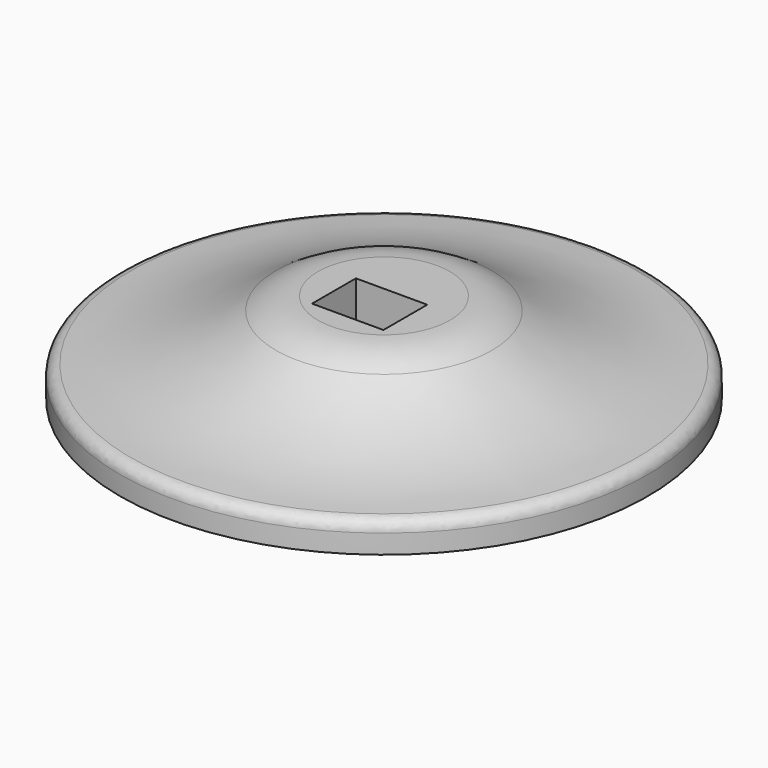
from build123d import *

# Parameters (mm, degrees)
F0_W     = 17.5
F0_H     = 2
F2_W     = 4
F2_H     = 4
F3_DEPTH = 4
F4_R     = 0.75
F5_SCALE = 0.9
F6_DEPTH = 0.33
F7_DEPTH = 0.33
F8_DEPTH = 0.33


with BuildPart() as f1:
    # F0 (on Right) → F1 (revolve)
    with BuildSketch(Plane.YZ):
        with BuildLine():
            Line((0, 1), (17.5, 1))
            ThreePointArc((17.5, 1), (12.0974696672, 1.8050013115), (7.164313392, 4.1500664011))
            ThreePointArc((7.164313392, 4.1500664011), (5.8332762858, 4.7827989716), (4.3755952516, 5))
            Line((4.3755952516, 5), (0, 5))
            Line((0, 5), (0, 1))
        make_face()
        with Locations((8.75, 0)):
            Rectangle(F0_W, F0_H)
    revolve(axis=Axis((0, 0, 2), (0, 0, 1)))

    # F2 (on face) → F3 (cut)
    with BuildSketch(Plane.XY.offset(5)):
        with Locations((0, -1)):
            Rectangle(F2_W, F2_H)
    extrude(amount=-F3_DEPTH, mode=Mode.SUBTRACT)

    # F4
    f4_edges = [f1.edges().sort_by_distance(p)[0] for p in [
        (0, -17.5, 1),
    ]]
    fillet(f4_edges, radius=F4_R)


with BuildPart() as f1_1:
    # F5: moved
    add(f1.part.scale(F5_SCALE))

    # F6 (cut): a face of the model
    f6_faces = [f1_1.faces().sort_by_distance(p)[0] for p in [
        (-1.8, -0.9, 2.7),
    ]]
    extrude(f6_faces, amount=-F6_DEPTH, mode=Mode.SUBTRACT)

    # F7 (cut): a face of the model
    f7_faces = [f1_1.faces().sort_by_distance(p)[0] for p in [
        (1.8, -0.9, 2.7),
    ]]
    extrude(f7_faces, amount=-F7_DEPTH, mode=Mode.SUBTRACT)

    # F8 (add): a face of the model
    f8_faces = [f1_1.faces().sort_by_distance(p)[0] for p in [
        (0, 0.9, 2.7),
    ]]
    extrude(f8_faces, amount=F8_DEPTH)


solid = f1_1.part
